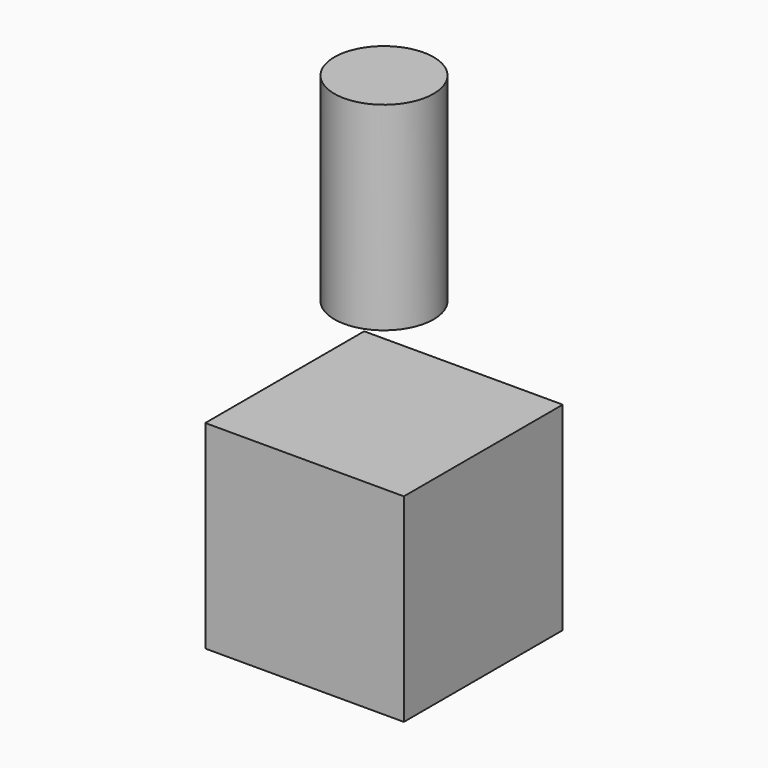
from build123d import *

# Parameters (mm, degrees)
SKETCH_W     = 10
SKETCH_H     = 10
PAD_DEPTH    = 10
SKETCH001_R  = 2.5
PAD001_DEPTH = 10


with BuildPart() as cube_body:
    # Sketch → Pad (new body)
    with BuildSketch(Plane.XY):
        Rectangle(SKETCH_W, SKETCH_H)
    extrude(amount=PAD_DEPTH)


with BuildPart() as cylinder_body:
    # Sketch001 → Pad001 (new body)
    with BuildSketch(Plane.XY):
        Circle(SKETCH001_R)
    extrude(amount=PAD001_DEPTH)


with BuildPart() as cylinder_body_1:
    # Body001 placement: moved
    add(cylinder_body.part.moved(Location((0, 0, 15))))


solid = Compound([cube_body.part, cylinder_body_1.part])
